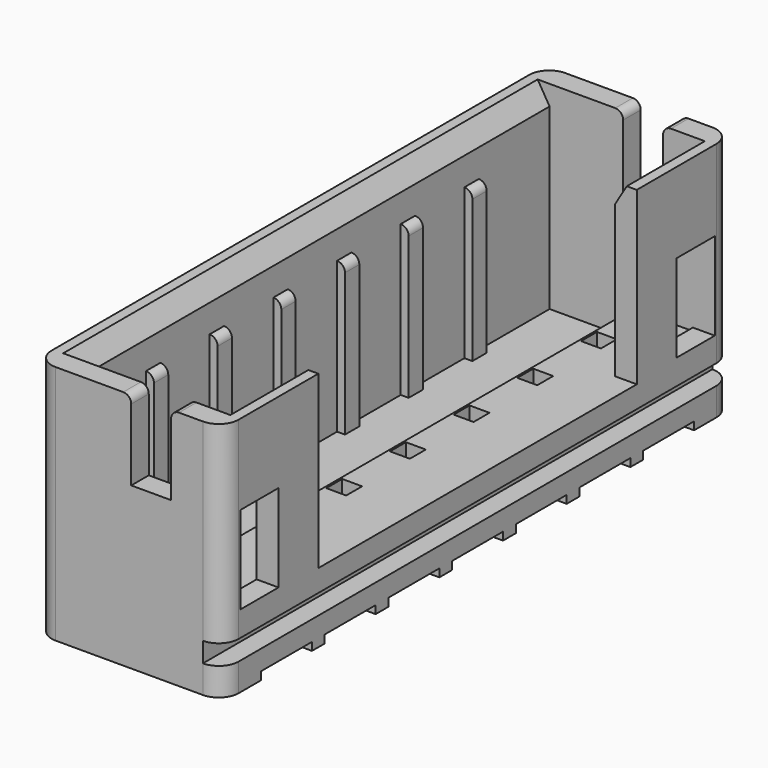
from build123d import *

# Parameters (mm, degrees)
PAD_DEPTH              = 6.05
SKETCH_W               = 3.6
SKETCH_H               = 14.9
POCKET_DEPTH           = 4.3
POCKET001_DEPTH        = 1.45
POCKET001_DEPTH_BACK   = 13.45
SKETCH004_W            = 0.55
SKETCH004_H            = 10
POCKET002_DEPTH        = 4.3
SKETCH005_W            = 1.2
SKETCH005_H            = 2.2
POCKET003_DEPTH        = 1.751
POCKET004_DEPTH        = 2.001
POCKET004_DEPTH_BACK   = 14.001
SKETCH007_W            = 0.5
SKETCH007_H            = 0.5
POCKET005_DEPTH        = 2.001
POCKET005_DEPTH_BACK   = 14.001
SKETCH008_W            = 0.2
SKETCH008_H            = 0.45
PAD001_DEPTH           = 4.85
LINEARPATTERN_COUNT    = 6
LINEARPATTERN_PITCH    = 2
POCKET006_DEPTH        = 12
SKETCH010_W            = 1.6
SKETCH010_H            = 0.2
POCKET007_DEPTH        = 2.951
POCKET007_DEPTH_BACK   = 1.751
LINEARPATTERN001_COUNT = 7
LINEARPATTERN001_PITCH = 2
SKETCH011_W            = 0.5
SKETCH011_H            = 0.5
POCKET008_DEPTH        = 0.001
POCKET008_DEPTH_BACK   = 6.051
LINEARPATTERN002_COUNT = 7
LINEARPATTERN002_PITCH = 2


with BuildPart() as part:
    # Sketch001 → Pad (new body)
    with BuildSketch(Plane.XY):
        with BuildLine():
            Line((-2.95, 1.5), (-2.95, -13.5))
            ThreePointArc((-2.95, -13.5), (-2.803553, -13.853553), (-2.45, -14))
            Line((-2.45, -14), (1.25, -14))
            ThreePointArc((1.25, -14), (1.603553, -13.853553), (1.75, -13.5))
            Line((1.75, -13.5), (1.75, 1.5))
            ThreePointArc((1.75, 1.5), (1.603553, 1.853553), (1.25, 2))
            Line((1.25, 2), (-2.45, 2))
            ThreePointArc((-2.45, 2), (-2.803553, 1.853553), (-2.95, 1.5))
        make_face()
    extrude(amount=PAD_DEPTH)

    # Sketch (on DatumPlane) → Pocket (cut)
    with BuildSketch(Plane.XY.offset(6.05)):
        with Locations((-0.6, -6)):
            Rectangle(SKETCH_W, SKETCH_H)
    extrude(amount=-POCKET_DEPTH, mode=Mode.SUBTRACT)

    # Sketch003 → Pocket001 (cut, two sides)
    with BuildSketch(Plane.XZ) as pocket001_sk:
        Polygon((1.5, 6.05), (1.2, 6.05), (1.2, 5.55), align=None)
        Polygon((-2.7, 6.05), (-2.4, 5.55), (-2.4, 6.05), align=None)
        Polygon((-2.4, 1.75), (-0.3, 1.75), (-0.9, 1.07), (-2.4, 1.07), align=None)
    extrude(amount=-POCKET001_DEPTH, mode=Mode.SUBTRACT)
    extrude(pocket001_sk.sketch, amount=POCKET001_DEPTH_BACK, mode=Mode.SUBTRACT)

    # Sketch004 (on DatumPlane) → Pocket002 (cut)
    with BuildSketch(Plane.XY.offset(6.05)):
        with Locations((1.475, -6)):
            Rectangle(SKETCH004_W, SKETCH004_H)
    extrude(amount=-POCKET002_DEPTH, mode=Mode.SUBTRACT)

    # Sketch005 → Pocket003 (cut, through all)
    with BuildSketch(Plane.YZ):
        with Locations((0.85, 2.93)):
            Rectangle(SKETCH005_W, SKETCH005_H)
        with Locations((-12.85, 2.93)):
            Rectangle(SKETCH005_W, SKETCH005_H)
    extrude(amount=POCKET003_DEPTH, mode=Mode.SUBTRACT)

    # Sketch006 → Pocket004 (cut, two sides)
    with BuildSketch(Plane.XZ) as pocket004_sk:
        with BuildLine():
            Line((0.45, 5.85), (0.45, 4.05))
            Line((0.45, 4.05), (-0.55, 4.05))
            Line((-0.55, 4.05), (-0.55, 5.85))
            ThreePointArc((-0.55, 5.85), (-0.608579, 5.991421), (-0.75, 6.05))
            Line((0.65, 6.05), (-0.75, 6.05))
            ThreePointArc((0.65, 6.05), (0.508579, 5.991421), (0.45, 5.85))
        make_face()
    extrude(amount=-POCKET004_DEPTH, mode=Mode.SUBTRACT)
    extrude(pocket004_sk.sketch, amount=POCKET004_DEPTH_BACK, mode=Mode.SUBTRACT)

    # Sketch007 → Pocket005 (cut, two sides)
    with BuildSketch(Plane.XZ) as pocket005_sk:
        with Locations((1.5, 0.95)):
            Rectangle(SKETCH007_W, SKETCH007_H)
    extrude(amount=-POCKET005_DEPTH, mode=Mode.SUBTRACT)
    extrude(pocket005_sk.sketch, amount=POCKET005_DEPTH_BACK, mode=Mode.SUBTRACT)

    # Sketch008 → Pad001 (join)
    with BuildSketch(Plane.XY):
        with Locations((-2.3, -1)):
            Rectangle(SKETCH008_W, SKETCH008_H)
    pad001 = extrude(amount=PAD001_DEPTH)

    # LinearPattern: Pad001 ×6
    with Locations(*[(0, -i * LINEARPATTERN_PITCH, 0) for i in range(1, LINEARPATTERN_COUNT)]):
        add(pad001)

    # Sketch009 → Pocket006 (cut)
    with BuildSketch(Plane.XZ):
        with BuildLine():
            Line((-2.4, 4.95), (-2.2, 4.95))
            Line((-2.2, 4.95), (-2.2, 4.65))
            ThreePointArc((-2.2, 4.65), (-2.258579, 4.791421), (-2.4, 4.85))
            Line((-2.4, 4.85), (-2.4, 4.95))
        make_face()
    extrude(amount=POCKET006_DEPTH, mode=Mode.SUBTRACT)

    # Sketch010 → Pocket007 (cut, two sides)
    with BuildSketch(Plane.YZ) as pocket007_sk:
        with Locations((0, 0.1)):
            Rectangle(SKETCH010_W, SKETCH010_H)
    pocket007 = extrude(amount=-POCKET007_DEPTH, mode=Mode.SUBTRACT) + extrude(pocket007_sk.sketch, amount=POCKET007_DEPTH_BACK, mode=Mode.SUBTRACT)

    # LinearPattern001: Pocket007 ×7
    with Locations(*[(0, -i * LINEARPATTERN001_PITCH, 0) for i in range(1, LINEARPATTERN001_COUNT)]):
        add(pocket007, mode=Mode.SUBTRACT)

    # Sketch011 → Pocket008 (cut, two sides)
    with BuildSketch(Plane.XY) as pocket008_sk:
        Rectangle(SKETCH011_W, SKETCH011_H)
    pocket008 = extrude(amount=-POCKET008_DEPTH, mode=Mode.SUBTRACT) + extrude(pocket008_sk.sketch, amount=POCKET008_DEPTH_BACK, mode=Mode.SUBTRACT)

    # LinearPattern002: Pocket008 ×7
    with Locations(*[(0, -i * LINEARPATTERN002_PITCH, 0) for i in range(1, LINEARPATTERN002_COUNT)]):
        add(pocket008, mode=Mode.SUBTRACT)


solid = part.part
